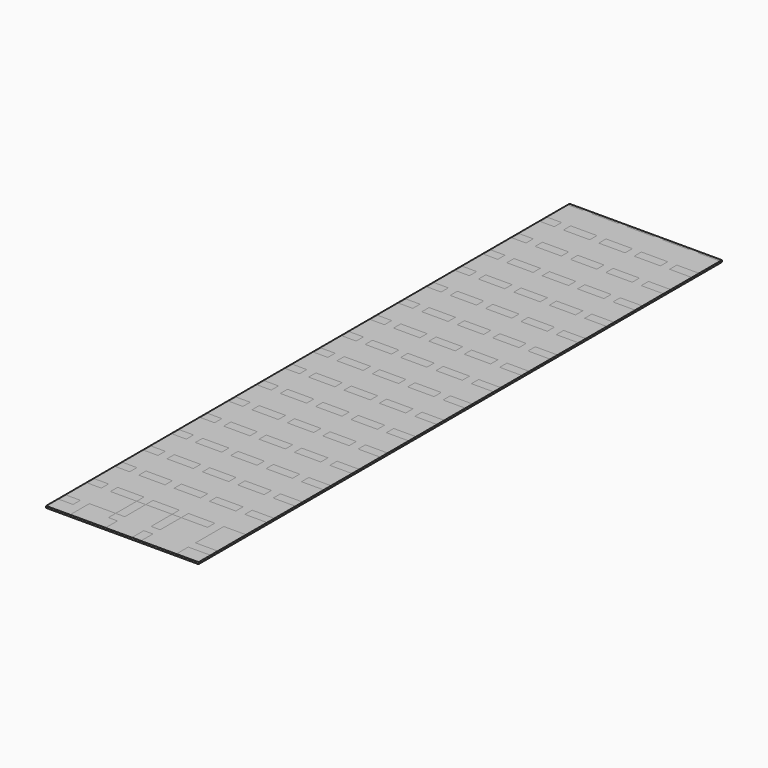
from build123d import *

# Parameters (mm, degrees)
F0_W     = 2133.6
F0_H     = 9156.7
F1_DEPTH = 25.4
F2_W     = 196.85
F2_H     = 127
F2_W_2   = 368.3
F2_W_3   = 127
F2_H_2   = 368.3
F2_W_4   = 311.15
F2_H_3   = 31.75
F2_H_4   = 196.85
F3_DEPTH = 0.000254


with BuildPart() as f1:
    # F0 (on Top) → F1 (new body)
    with BuildSketch(Plane.XY):
        with Locations((1066.8, 4578.35)):
            Rectangle(F0_W, F0_H)
    extrude(amount=F1_DEPTH)

    # F2 (on face) → F3 (join)
    with BuildSketch(Plane.XY.offset(25.4)):
        with Locations((111.125, 273.05)):
            Rectangle(F2_W, F2_H)
        with Locations((520.7, 273.05)):
            Rectangle(F2_W_2, F2_H)
        with Locations((768.35, 520.7)):
            Rectangle(F2_W_3, F2_H_2)
        with Locations((1263.65, 520.7)):
            Rectangle(F2_W_3, F2_H_2)
        with Locations((1978.025, 520.7)):
            Rectangle(F2_W_4, F2_H_2)
        with Locations((111.125, 768.35)):
            Rectangle(F2_W, F2_H)
        with Locations((520.7, 768.35)):
            Rectangle(F2_W_2, F2_H)
        with Locations((1016, 768.35)):
            Rectangle(F2_W_2, F2_H)
        with Locations((1511.3, 768.35)):
            Rectangle(F2_W_2, F2_H)
        with Locations((1978.025, 768.35)):
            Rectangle(F2_W_4, F2_H)
        with Locations((1978.025, 1263.65)):
            Rectangle(F2_W_4, F2_H)
        with Locations((1511.3, 1263.65)):
            Rectangle(F2_W_2, F2_H)
        with Locations((1016, 1263.65)):
            Rectangle(F2_W_2, F2_H)
        with Locations((520.7, 1263.65)):
            Rectangle(F2_W_2, F2_H)
        with Locations((111.125, 1263.65)):
            Rectangle(F2_W, F2_H)
        with Locations((111.125, 1758.95)):
            Rectangle(F2_W, F2_H)
        with Locations((520.7, 1758.95)):
            Rectangle(F2_W_2, F2_H)
        with Locations((1016, 1758.95)):
            Rectangle(F2_W_2, F2_H)
        with Locations((1511.3, 1758.95)):
            Rectangle(F2_W_2, F2_H)
        with Locations((1978.025, 1758.95)):
            Rectangle(F2_W_4, F2_H)
        with Locations((1978.025, 2254.25)):
            Rectangle(F2_W_4, F2_H)
        with Locations((1511.3, 2254.25)):
            Rectangle(F2_W_2, F2_H)
        with Locations((1016, 2254.25)):
            Rectangle(F2_W_2, F2_H)
        with Locations((520.7, 2254.25)):
            Rectangle(F2_W_2, F2_H)
        with Locations((111.125, 2254.25)):
            Rectangle(F2_W, F2_H)
        with Locations((111.125, 2749.55)):
            Rectangle(F2_W, F2_H)
        with Locations((520.7, 2749.55)):
            Rectangle(F2_W_2, F2_H)
        with Locations((1016, 2749.55)):
            Rectangle(F2_W_2, F2_H)
        with Locations((1511.3, 2749.55)):
            Rectangle(F2_W_2, F2_H)
        with Locations((1978.025, 2749.55)):
            Rectangle(F2_W_4, F2_H)
        with Locations((1978.025, 3244.85)):
            Rectangle(F2_W_4, F2_H)
        with Locations((1511.3, 3244.85)):
            Rectangle(F2_W_2, F2_H)
        with Locations((1016, 3244.85)):
            Rectangle(F2_W_2, F2_H)
        with Locations((520.7, 3244.85)):
            Rectangle(F2_W_2, F2_H)
        with Locations((111.125, 3244.85)):
            Rectangle(F2_W, F2_H)
        with Locations((111.125, 3740.15)):
            Rectangle(F2_W, F2_H)
        with Locations((520.7, 3740.15)):
            Rectangle(F2_W_2, F2_H)
        with Locations((1016, 3740.15)):
            Rectangle(F2_W_2, F2_H)
        with Locations((1511.3, 3740.15)):
            Rectangle(F2_W_2, F2_H)
        with Locations((1978.025, 3740.15)):
            Rectangle(F2_W_4, F2_H)
        with Locations((1978.025, 4235.45)):
            Rectangle(F2_W_4, F2_H)
        with Locations((1511.3, 4235.45)):
            Rectangle(F2_W_2, F2_H)
        with Locations((1016, 4235.45)):
            Rectangle(F2_W_2, F2_H)
        with Locations((520.7, 4235.45)):
            Rectangle(F2_W_2, F2_H)
        with Locations((111.125, 4235.45)):
            Rectangle(F2_W, F2_H)
        with Locations((111.125, 4730.75)):
            Rectangle(F2_W, F2_H)
        with Locations((520.7, 4730.75)):
            Rectangle(F2_W_2, F2_H)
        with Locations((1016, 4730.75)):
            Rectangle(F2_W_2, F2_H)
        with Locations((1511.3, 4730.75)):
            Rectangle(F2_W_2, F2_H)
        with Locations((1978.025, 4730.75)):
            Rectangle(F2_W_4, F2_H)
        with Locations((1978.025, 5226.05)):
            Rectangle(F2_W_4, F2_H)
        with Locations((1511.3, 5226.05)):
            Rectangle(F2_W_2, F2_H)
        with Locations((1016, 5226.05)):
            Rectangle(F2_W_2, F2_H)
        with Locations((520.7, 5226.05)):
            Rectangle(F2_W_2, F2_H)
        with Locations((111.125, 5226.05)):
            Rectangle(F2_W, F2_H)
        with Locations((111.125, 5721.35)):
            Rectangle(F2_W, F2_H)
        with Locations((520.7, 5721.35)):
            Rectangle(F2_W_2, F2_H)
        with Locations((1016, 5721.35)):
            Rectangle(F2_W_2, F2_H)
        with Locations((1511.3, 5721.35)):
            Rectangle(F2_W_2, F2_H)
        with Locations((1978.025, 5721.35)):
            Rectangle(F2_W_4, F2_H)
        with Locations((1978.025, 6216.65)):
            Rectangle(F2_W_4, F2_H)
        with Locations((1511.3, 6216.65)):
            Rectangle(F2_W_2, F2_H)
        with Locations((1016, 6216.65)):
            Rectangle(F2_W_2, F2_H)
        with Locations((520.7, 6216.65)):
            Rectangle(F2_W_2, F2_H)
        with Locations((111.125, 6216.65)):
            Rectangle(F2_W, F2_H)
        with Locations((111.125, 6711.95)):
            Rectangle(F2_W, F2_H)
        with Locations((520.7, 6711.95)):
            Rectangle(F2_W_2, F2_H)
        with Locations((1016, 6711.95)):
            Rectangle(F2_W_2, F2_H)
        with Locations((1511.3, 6711.95)):
            Rectangle(F2_W_2, F2_H)
        with Locations((1978.025, 6711.95)):
            Rectangle(F2_W_4, F2_H)
        with Locations((1978.025, 7207.25)):
            Rectangle(F2_W_4, F2_H)
        with Locations((1511.3, 7207.25)):
            Rectangle(F2_W_2, F2_H)
        with Locations((1016, 7207.25)):
            Rectangle(F2_W_2, F2_H)
        with Locations((520.7, 7207.25)):
            Rectangle(F2_W_2, F2_H)
        with Locations((111.125, 7207.25)):
            Rectangle(F2_W, F2_H)
        with Locations((111.125, 7702.55)):
            Rectangle(F2_W, F2_H)
        with Locations((520.7, 7702.55)):
            Rectangle(F2_W_2, F2_H)
        with Locations((1016, 7702.55)):
            Rectangle(F2_W_2, F2_H)
        with Locations((1511.3, 7702.55)):
            Rectangle(F2_W_2, F2_H)
        with Locations((1978.025, 7702.55)):
            Rectangle(F2_W_4, F2_H)
        with Locations((1978.025, 8197.85)):
            Rectangle(F2_W_4, F2_H)
        with Locations((1511.3, 8197.85)):
            Rectangle(F2_W_2, F2_H)
        with Locations((1016, 8197.85)):
            Rectangle(F2_W_2, F2_H)
        with Locations((520.7, 8197.85)):
            Rectangle(F2_W_2, F2_H)
        with Locations((111.125, 8197.85)):
            Rectangle(F2_W, F2_H)
        with Locations((111.125, 8693.15)):
            Rectangle(F2_W, F2_H)
        with Locations((520.7, 8693.15)):
            Rectangle(F2_W_2, F2_H)
        with Locations((1016, 8693.15)):
            Rectangle(F2_W_2, F2_H)
        with Locations((1511.3, 8693.15)):
            Rectangle(F2_W_2, F2_H)
        with Locations((1978.025, 8693.15)):
            Rectangle(F2_W_4, F2_H)
        with Locations((1978.025, 9140.825)):
            Rectangle(F2_W_4, F2_H_3)
        with Locations((1511.3, 9140.825)):
            Rectangle(F2_W_2, F2_H_3)
        with Locations((1016, 9140.825)):
            Rectangle(F2_W_2, F2_H_3)
        with Locations((520.7, 9140.825)):
            Rectangle(F2_W_2, F2_H_3)
        with Locations((111.125, 9140.825)):
            Rectangle(F2_W, F2_H_3)
        with Locations((111.125, 273.05)):
            Rectangle(F2_W, F2_H)
        with Locations((520.7, 111.125)):
            Rectangle(F2_W_2, F2_H_4)
        with Locations((768.35, 111.125)):
            Rectangle(F2_W_3, F2_H_4)
        with Locations((1263.65, 111.125)):
            Rectangle(F2_W_3, F2_H_4)
        with Locations((1978.025, 111.125)):
            Rectangle(F2_W_4, F2_H_4)
    extrude(amount=F3_DEPTH)


solid = f1.part
